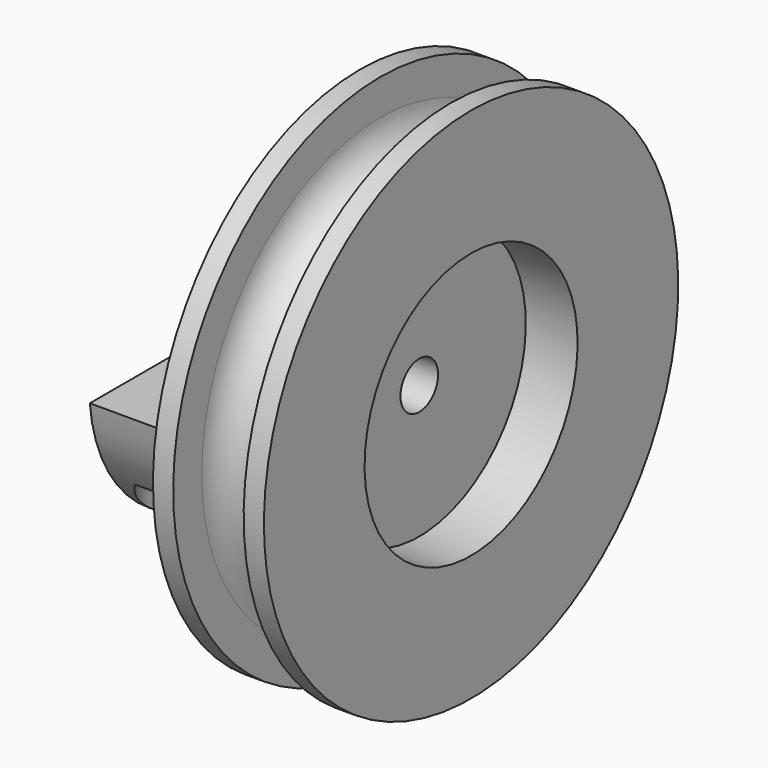
from build123d import *

# Parameters (mm, degrees)
F2_R      = 1.5875
F3_DEPTH  = 7.501
F5_DEPTH  = 9.5
F6_R      = 2
F7_DEPTH  = 16.501
F9_R      = 3.75
F10_DEPTH = 5


with BuildPart() as f1:
    # F0 (on Front) → F1 (revolve)
    with BuildSketch(Plane.XZ):
        with BuildLine():
            Line((0, 17.5), (0, 0))
            Line((0, 0), (4, 0))
            Line((4, 0), (4, 9))
            Line((4, 9), (7.5, 9))
            Line((7.5, 9), (7.5, 17.5))
            Line((7.5, 17.5), (6.13125, 17.5))
            Line((6.13125, 17.5), (6.13125, 15.08125))
            ThreePointArc((6.13125, 15.08125), (3.75, 12.7), (1.36875, 15.08125))
            Line((1.36875, 15.08125), (1.36875, 17.5))
            Line((1.36875, 17.5), (0, 17.5))
        make_face()
    revolve(axis=Axis((2, 0, 0), (-1, 0, 0)))

    # F2 (on face) → F3 (cut, through all)
    with BuildSketch(Plane.YZ.offset(7.5)):
        Circle(F2_R)
    extrude(amount=-F3_DEPTH, mode=Mode.SUBTRACT)

    # F4 (on face) → F5 (join)
    with BuildSketch(Plane(origin=(0, 0, 0), x_dir=(0, -1, 0), z_dir=(-1, 0, 0))):
        with BuildLine():
            Line((-1.2329461667, -1), (-10.9544511501, -1))
            ThreePointArc((-10.9544511501, -1), (0, -11), (10.9544511501, -1))
            Line((10.9544511501, -1), (1.2329461667, -1))
            ThreePointArc((1.2329461667, -1), (0, -1.5875), (-1.2329461667, -1))
        make_face()
    extrude(amount=F5_DEPTH)

    # F6 (on face) → F7 (cut, through all)
    with BuildSketch(Plane.XY.offset(-1)):
        with Locations((-5.25, 6.5)):
            Circle(F6_R)
        with Locations((-5.25, -6.5)):
            Circle(F6_R)
    extrude(amount=-F7_DEPTH, mode=Mode.SUBTRACT)

    # F9 (on offset) → F10 (cut)
    with BuildSketch(Plane.XY.offset(-11)):
        with Locations((-5.25, -6.5)):
            Circle(F9_R)
    extrude(amount=F10_DEPTH, mode=Mode.SUBTRACT)


solid = f1.part
